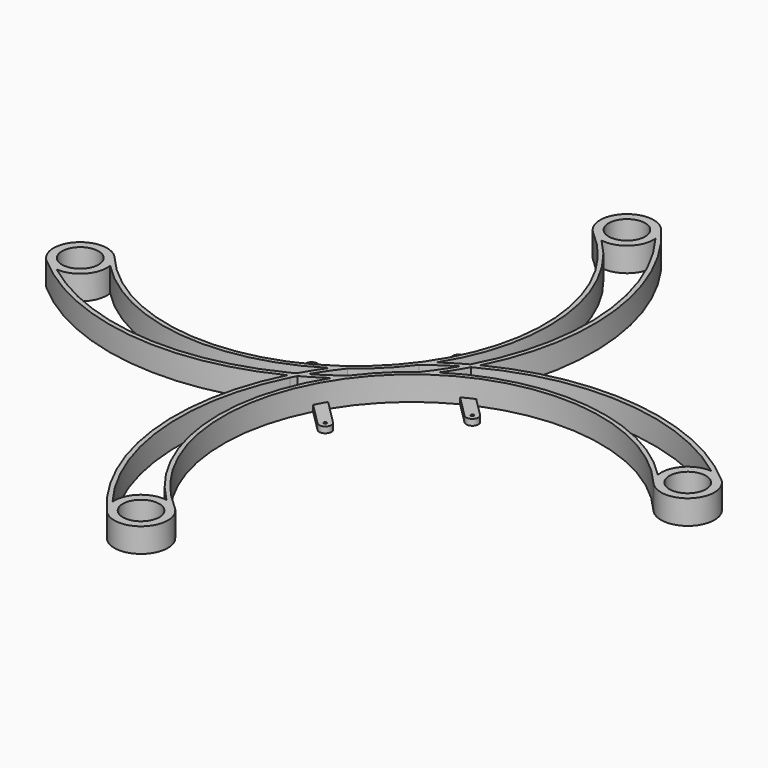
from build123d import *

# Parameters (mm, degrees)
F0_R     = 3
F0_R_2   = 3.009085
F2_DEPTH = 4
F1_R     = 0.25
F3_DEPTH = 1


with BuildPart() as f2:
    # F0 (on Top) → F2 (new body)
    with BuildSketch(Plane.XY):
        with BuildLine():
            ThreePointArc((-2.943287, 46.660864), (-0.966878, 0.938237), (-46.69002, 2.902697))
            ThreePointArc((-46.69002, 2.902697), (-53.115015, 3.104241), (-52.884477, -3.319779))
            ThreePointArc((-52.884477, -3.319779), (-31.69787, -12.786126), (-8.831983, -8.831983))
            ThreePointArc((-8.831983, -8.831983), (-12.786126, -31.69787), (-3.319779, -52.884477))
            ThreePointArc((-3.319779, -52.884477), (3.104241, -53.115015), (2.902697, -46.69002))
            ThreePointArc((2.902697, -46.69002), (0.938286, -0.966912), (46.660878, -2.943288))
            ThreePointArc((46.660878, -2.943288), (53.085559, -3.145237), (52.85609, 3.27852))
            ThreePointArc((52.85609, 3.27852), (31.667127, 12.75029), (8.796713, 8.796713))
            ThreePointArc((8.796713, 8.796713), (12.75029, 31.667127), (3.27852, 52.85609))
            ThreePointArc((3.27852, 52.85609), (-3.145192, 53.085499), (-2.943287, 46.660864))
        make_face()
        with BuildLine():
            ThreePointArc((-3.907323, -5.886159), (-8.65465, -26.588997), (0.708341, -45.654123))
            ThreePointArc((0.708341, -45.654123), (-2.997064, -46.775303), (-4.382365, -50.390274))
            ThreePointArc((-4.382365, -50.390274), (-12.181233, -30.319052), (-8.159824, -9.164748))
            ThreePointArc((-8.159824, -9.164748), (-7.916828, -8.690968), (-7.667397, -8.220543))
            ThreePointArc((-7.667397, -8.220543), (-5.754898, -7.105639), (-3.907323, -5.886159))
        make_face(mode=Mode.SUBTRACT)
        with BuildLine():
            ThreePointArc((-50.390274, -4.382365), (-46.775303, -2.997064), (-45.654123, 0.708341))
            ThreePointArc((-45.654123, 0.708341), (-26.589057, -8.654679), (-5.88624, -3.907439))
            ThreePointArc((-5.88624, -3.907439), (-7.105676, -5.754958), (-8.220543, -7.667397))
            ThreePointArc((-8.220543, -7.667397), (-8.690968, -7.916828), (-9.164748, -8.159824))
            ThreePointArc((-9.164748, -8.159824), (-30.319052, -12.181233), (-50.390274, -4.382365))
        make_face(mode=Mode.SUBTRACT)
        with BuildLine():
            ThreePointArc((-6.954048, -6.954048), (-5.537825, -4.72203), (-3.973892, -2.590902))
            ThreePointArc((-3.973892, -2.590902), (-0.470244, 0.435462), (2.556183, 3.939056))
            ThreePointArc((2.556183, 3.939056), (4.687049, 5.502753), (6.918778, 6.918778))
            ThreePointArc((6.918778, 6.918778), (5.502695, 4.686965), (3.93893, 2.556023))
            ThreePointArc((3.93893, 2.556023), (0.435502, -0.47028), (-2.590738, -3.973763))
            ThreePointArc((-2.590738, -3.973763), (-4.721944, -5.537766), (-6.954048, -6.954048))
        make_face(mode=Mode.SUBTRACT)
        with Locations((0, -49.996732)):
            Circle(F0_R, mode=Mode.SUBTRACT)
        with Locations((49.967591, -0.040591)):
            Circle(F0_R, mode=Mode.SUBTRACT)
        with Locations((-49.996732, 0)):
            Circle(F0_R_2, mode=Mode.SUBTRACT)
        with Locations((-0.040589, 49.967576)):
            Circle(F0_R, mode=Mode.SUBTRACT)
        with BuildLine():
            ThreePointArc((50.362121, 4.341686), (46.746855, 2.957219), (45.624813, -0.7479))
            ThreePointArc((45.624813, -0.7479), (26.55794, 8.619893), (5.851302, 3.872643))
            ThreePointArc((5.851302, 3.872643), (7.070559, 5.719934), (8.185273, 7.632127))
            ThreePointArc((8.185273, 7.632127), (29.757679, 12.190586), (50.362121, 4.341686))
        make_face(mode=Mode.SUBTRACT)
        with BuildLine():
            ThreePointArc((3.872754, 5.85138), (8.619916, 26.557989), (-0.7479, 45.624799))
            ThreePointArc((-0.7479, 45.624799), (2.957225, 46.746845), (4.341686, 50.362121))
            ThreePointArc((4.341686, 50.362121), (12.190586, 29.757679), (7.632127, 8.185273))
            ThreePointArc((7.632127, 8.185273), (5.719991, 7.070594), (3.872754, 5.85138))
        make_face(mode=Mode.SUBTRACT)
    extrude(amount=F2_DEPTH)

    # F1 (on Top) → F3 (join)
    with BuildSketch(Plane.XY):
        with BuildLine():
            ThreePointArc((-10.960155, 0.353553), (-12.374369, 0.353553), (-12.374369, -1.06066))
            Line((-12.374369, -1.06066), (-6.717514, -6.717514))
            Line((-6.717514, -6.717514), (-1.06066, -12.374369))
            ThreePointArc((-1.06066, -12.374369), (0.353553, -12.374369), (0.353553, -10.960155))
            Line((0.353553, -10.960155), (-5.303301, -5.303301))
            Line((-5.303301, -5.303301), (-10.960155, 0.353553))
        make_face()
        with Locations((-0.353553, -11.667262)):
            Circle(F1_R, mode=Mode.SUBTRACT)
        with Locations((-11.667262, -0.353553)):
            Circle(F1_R, mode=Mode.SUBTRACT)
        with BuildLine():
            ThreePointArc((12.374369, 1.06066), (13.788582, 1.06066), (13.788582, 2.474874))
            Line((13.788582, 2.474874), (8.131728, 8.131728))
            Line((8.131728, 8.131728), (6.717514, 6.717514))
            Line((6.717514, 6.717514), (12.374369, 1.06066))
        make_face()
        with Locations((13.081475, 1.767767)):
            Circle(F1_R, mode=Mode.SUBTRACT)
        with BuildLine():
            Line((6.717514, 6.717514), (8.131728, 8.131728))
            Line((8.131728, 8.131728), (2.474874, 13.788582))
            ThreePointArc((2.474874, 13.788582), (1.06066, 13.788582), (1.06066, 12.374369))
            Line((1.06066, 12.374369), (6.717514, 6.717514))
        make_face()
        with Locations((1.767767, 13.081475)):
            Circle(F1_R, mode=Mode.SUBTRACT)
    extrude(amount=F3_DEPTH)


solid = f2.part
